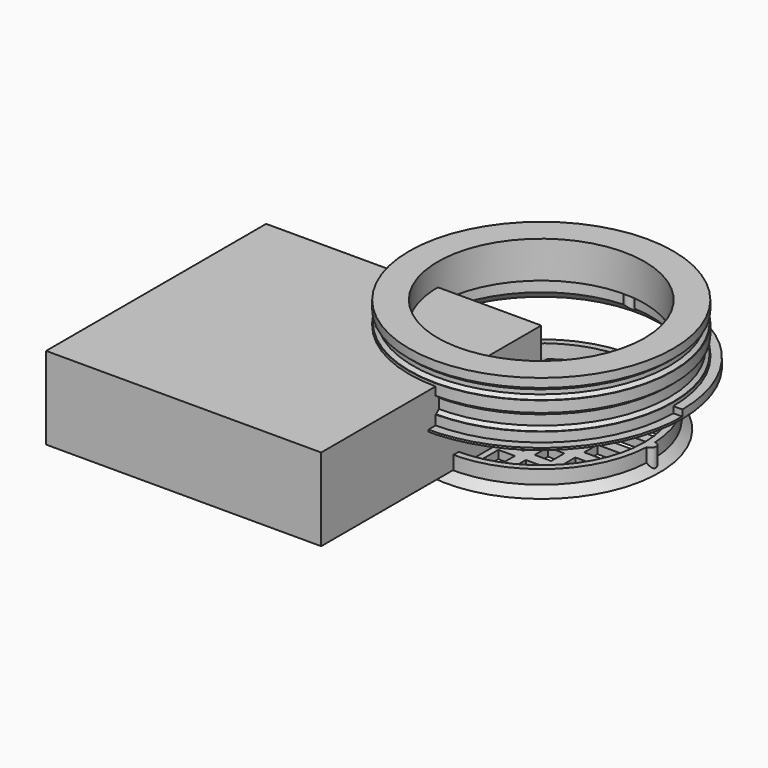
from build123d import *

# Parameters (mm, degrees)
CYLINDER053_R     = 1.9
CYLINDER053_DEPTH = 7.8
CYLINDER045_R     = 1.9
CYLINDER045_DEPTH = 7.8
CYLINDER047_R     = 1.9
CYLINDER047_DEPTH = 7.8
CYLINDER050_R     = 68.3
CYLINDER050_DEPTH = 5
CYLINDER051_R     = 37.5
CYLINDER051_DEPTH = 32
CYLINDER042_R     = 37.5
CYLINDER042_DEPTH = 5
CYLINDER043_R     = 39.9
CYLINDER043_DEPTH = 5
CYLINDER044_R     = 50
CYLINDER044_DEPTH = 10
CYLINDER049_R     = 37.5
CYLINDER049_DEPTH = 5
CYLINDER046_R     = 45
CYLINDER046_DEPTH = 5
BOX013_W          = 66
BOX013_H          = 4
BOX013_DEPTH      = 5
BOX012_W          = 66
BOX012_H          = 4
BOX012_DEPTH      = 5
BOX015_W          = 74
BOX015_H          = 4
BOX015_DEPTH      = 5
BOX016_W          = 74
BOX016_H          = 4
BOX016_DEPTH      = 5
BOX018_W          = 74
BOX018_H          = 4
BOX018_DEPTH      = 5
BOX011_W          = 66
BOX011_H          = 4
BOX011_DEPTH      = 5
BOX014_W          = 76
BOX014_H          = 4
BOX014_DEPTH      = 5
BOX017_W          = 66
BOX017_H          = 4
BOX017_DEPTH      = 5
BOX019_W          = 76
BOX019_H          = 4
BOX019_DEPTH      = 5
BOX010_W          = 74
BOX010_H          = 4
BOX010_DEPTH      = 5
CYLINDER052_R     = 37.3
CYLINDER052_DEPTH = 5
CYLINDER048_R     = 37.5
CYLINDER048_DEPTH = 5
BOX_W             = 70
BOX_H             = 70
BOX_DEPTH         = 20
CYLINDER060_R     = 48
CYLINDER060_DEPTH = 7
CYLINDER059_R     = 51.3
CYLINDER059_DEPTH = 2.28
CYLINDER058_R     = 2
CYLINDER058_DEPTH = 7.8
CYLINDER057_R     = 2
CYLINDER057_DEPTH = 7.8
CYLINDER054_R     = 2
CYLINDER054_DEPTH = 7.8
CYLINDER056_R     = 37.6
CYLINDER056_DEPTH = 13.4
CYLINDER055_R     = 40
CYLINDER055_DEPTH = 13.4
CYLINDER019_R     = 68.3
CYLINDER019_DEPTH = 5
CYLINDER009_R     = 40
CYLINDER009_DEPTH = 27.4
CYLINDER008_R     = 45
CYLINDER008_DEPTH = 23.4
CYLINDER005_R     = 45
CYLINDER005_DEPTH = 25
CYLINDER_R        = 48
CYLINDER_DEPTH    = 3.2
CYLINDER003_R     = 46.6
CYLINDER003_DEPTH = 6
CYLINDER001_R     = 46.6
CYLINDER001_DEPTH = 4
CYLINDER002_R     = 48
CYLINDER002_DEPTH = 4
CYLINDER004_R     = 48
CYLINDER004_DEPTH = 1.2
CYLINDER007_R     = 45
CYLINDER007_DEPTH = 25
CYLINDER006_R     = 51.3
CYLINDER006_DEPTH = 5
CHAMFER_SIZE      = 1.2
CHAMFER001_SIZE   = 1.2
BOX021_W          = 100
BOX021_H          = 100
BOX021_DEPTH      = 30


with BuildPart() as cylinder053:
    # Cylinder053 → Cylinder053 (new body)
    with BuildSketch(Plane(origin=(0, 39.8, -18), x_dir=(1, 0, 0), z_dir=(0, 0, 1))):
        Circle(CYLINDER053_R)
    extrude(amount=CYLINDER053_DEPTH)


with BuildPart() as cylinder045:
    # Cylinder045 → Cylinder045 (new body)
    with BuildSketch(Plane(origin=(-39.8, 0, -18), x_dir=(1, 0, 0), z_dir=(0, 0, 1))):
        Circle(CYLINDER045_R)
    extrude(amount=CYLINDER045_DEPTH)


with BuildPart() as cylinder047:
    # Cylinder047 → Cylinder047 (new body)
    with BuildSketch(Plane(origin=(39.8, 0, -18), x_dir=(1, 0, 0), z_dir=(0, 0, 1))):
        Circle(CYLINDER047_R)
    extrude(amount=CYLINDER047_DEPTH)


with BuildPart() as obj1:
    # Cylinder050 → Cylinder050 (new body)
    with BuildSketch(Plane.XY.offset(-23.2)):
        Circle(CYLINDER050_R)
    extrude(amount=CYLINDER050_DEPTH)


with BuildPart() as cylinder051:
    # Cylinder051 → Cylinder051 (new body)
    with BuildSketch(Plane.XY.offset(-39)):
        Circle(CYLINDER051_R)
    extrude(amount=CYLINDER051_DEPTH)


with BuildPart() as cut019:
    # Cone003 → Cone003 (revolve)
    with BuildSketch(Plane(origin=(0, 0, -15.2), x_dir=(-1, 0, 0), z_dir=(0, -1, 0))):
        Polygon((0, 0), (39.85, 0), (44.9, 5), (0, 5), align=None)
    revolve(axis=Axis((0, 0, -15.2), (0, 0, -1)))

    # Cut019: cut Cylinder051
    add(cylinder051.part, mode=Mode.SUBTRACT)


with BuildPart() as cylinder042:
    # Cylinder042 → Cylinder042 (new body)
    with BuildSketch(Plane.XY):
        Circle(CYLINDER042_R)
    extrude(amount=CYLINDER042_DEPTH)


with BuildPart() as cut025:
    # Cylinder043 → Cylinder043 (new body)
    with BuildSketch(Plane.XY):
        Circle(CYLINDER043_R)
    extrude(amount=CYLINDER043_DEPTH)

    # Cut021: cut Cylinder042
    add(cylinder042.part, mode=Mode.SUBTRACT)


with BuildPart() as cut025_1:
    # Cut021 placement: moved
    add(cut025.part.moved(Location((0, 0, -15.2))))

    # Fusion015: union Cut019
    add(cut019.part)

    # Cut025: cut obj1
    add(obj1.part, mode=Mode.SUBTRACT)


with BuildPart() as cylinder044:
    # Cylinder044 → Cylinder044 (new body)
    with BuildSketch(Plane.XY.offset(-49)):
        Circle(CYLINDER044_R)
    extrude(amount=CYLINDER044_DEPTH)


with BuildPart() as cylinder049:
    # Cylinder049 → Cylinder049 (new body)
    with BuildSketch(Plane.XY.offset(-41)):
        Circle(CYLINDER049_R)
    extrude(amount=CYLINDER049_DEPTH)


with BuildPart() as cut020:
    # Cylinder046 → Cylinder046 (new body)
    with BuildSketch(Plane.XY.offset(-41)):
        Circle(CYLINDER046_R)
    extrude(amount=CYLINDER046_DEPTH)

    # Cut020: cut Cylinder049
    add(cylinder049.part, mode=Mode.SUBTRACT)


with BuildPart() as cube013:
    # Box013 → Box013 (new body)
    with BuildSketch(Plane(origin=(-18, -33, -41), x_dir=(0, 1, 0), z_dir=(0, 0, 1))):
        with Locations((33, 2)):
            Rectangle(BOX013_W, BOX013_H)
    extrude(amount=BOX013_DEPTH)


with BuildPart() as cube012:
    # Box012 → Box012 (new body)
    with BuildSketch(Plane(origin=(22, -33, -41), x_dir=(0, 1, 0), z_dir=(0, 0, 1))):
        with Locations((33, 2)):
            Rectangle(BOX012_W, BOX012_H)
    extrude(amount=BOX012_DEPTH)


with BuildPart() as cube015:
    # Box015 → Box015 (new body)
    with BuildSketch(Plane(origin=(-8, -37, -41), x_dir=(0, 1, 0), z_dir=(0, 0, 1))):
        with Locations((37, 2)):
            Rectangle(BOX015_W, BOX015_H)
    extrude(amount=BOX015_DEPTH)


with BuildPart() as cube016:
    # Box016 → Box016 (new body)
    with BuildSketch(Plane(origin=(-37, 8, -41), x_dir=(1, 0, 0), z_dir=(0, 0, 1))):
        with Locations((37, 2)):
            Rectangle(BOX016_W, BOX016_H)
    extrude(amount=BOX016_DEPTH)


with BuildPart() as cube018:
    # Box018 → Box018 (new body)
    with BuildSketch(Plane(origin=(-37, -12, -41), x_dir=(1, 0, 0), z_dir=(0, 0, 1))):
        with Locations((37, 2)):
            Rectangle(BOX018_W, BOX018_H)
    extrude(amount=BOX018_DEPTH)


with BuildPart() as cube011:
    # Box011 → Box011 (new body)
    with BuildSketch(Plane(origin=(-33, -22, -41), x_dir=(1, 0, 0), z_dir=(0, 0, 1))):
        with Locations((33, 2)):
            Rectangle(BOX011_W, BOX011_H)
    extrude(amount=BOX011_DEPTH)


with BuildPart() as cube014:
    # Box014 → Box014 (new body)
    with BuildSketch(Plane(origin=(-38, -2, -41), x_dir=(1, 0, 0), z_dir=(0, 0, 1))):
        with Locations((38, 2)):
            Rectangle(BOX014_W, BOX014_H)
    extrude(amount=BOX014_DEPTH)


with BuildPart() as cube017:
    # Box017 → Box017 (new body)
    with BuildSketch(Plane(origin=(-33, 18, -41), x_dir=(1, 0, 0), z_dir=(0, 0, 1))):
        with Locations((33, 2)):
            Rectangle(BOX017_W, BOX017_H)
    extrude(amount=BOX017_DEPTH)


with BuildPart() as cube019:
    # Box019 → Box019 (new body)
    with BuildSketch(Plane(origin=(2, -38, -41), x_dir=(0, 1, 0), z_dir=(0, 0, 1))):
        with Locations((38, 2)):
            Rectangle(BOX019_W, BOX019_H)
    extrude(amount=BOX019_DEPTH)


with BuildPart() as cube010:
    # Box010 → Box010 (new body)
    with BuildSketch(Plane(origin=(12, -37, -41), x_dir=(0, 1, 0), z_dir=(0, 0, 1))):
        with Locations((37, 2)):
            Rectangle(BOX010_W, BOX010_H)
    extrude(amount=BOX010_DEPTH)


with BuildPart() as cylinder052:
    # Cylinder052 → Cylinder052 (new body)
    with BuildSketch(Plane.XY.offset(-41)):
        Circle(CYLINDER052_R)
    extrude(amount=CYLINDER052_DEPTH)


with BuildPart() as fusion018:
    # Cylinder048 → Cylinder048 (new body)
    with BuildSketch(Plane.XY.offset(-41)):
        Circle(CYLINDER048_R)
    extrude(amount=CYLINDER048_DEPTH)

    # Cut022: cut Cylinder052
    add(cylinder052.part, mode=Mode.SUBTRACT)

    # Fusion016: union Cube013, Cube012, Cube015, Cube016, Cube018, Cube011, Cube014, Cube017, Cube019, Cube010
    add(cube013.part)
    add(cube012.part)
    add(cube015.part)
    add(cube016.part)
    add(cube018.part)
    add(cube011.part)
    add(cube014.part)
    add(cube017.part)
    add(cube019.part)
    add(cube010.part)

    # Cut023: cut Cut020
    add(cut020.part, mode=Mode.SUBTRACT)

    # Cut024: cut Cylinder044
    add(cylinder044.part, mode=Mode.SUBTRACT)


with BuildPart() as fusion018_1:
    # Cut024 placement: moved
    add(fusion018.part.moved(Location((0, 0, 20.8))))

    # Fusion017: union Cut025
    add(cut025_1.part)

    # Fusion014: union Cylinder045, Cylinder047
    add(cylinder045.part)
    add(cylinder047.part)

    # Fusion018: union Cylinder053
    add(cylinder053.part)


with BuildPart() as cube:
    # Box → Box (new body)
    with BuildSketch(Plane.XY.offset(-24)):
        with Locations((35, 35)):
            Rectangle(BOX_W, BOX_H)
    extrude(amount=BOX_DEPTH)


with BuildPart() as cylinder060:
    # Cylinder060 → Cylinder060 (new body)
    with BuildSketch(Plane.XY.offset(-21.2)):
        Circle(CYLINDER060_R)
    extrude(amount=CYLINDER060_DEPTH)


with BuildPart() as cut031:
    # Cylinder059 → Cylinder059 (new body)
    with BuildSketch(Plane.XY.offset(-20.2)):
        Circle(CYLINDER059_R)
    extrude(amount=CYLINDER059_DEPTH)

    # Cut030: cut Cylinder060
    add(cylinder060.part, mode=Mode.SUBTRACT)

    # Cut031: cut Cube
    add(cube.part, mode=Mode.SUBTRACT)


with BuildPart() as cut031_1:
    # Cut031 placement: moved
    add(cut031.part.moved(Location((0, 0, 2.72))))


with BuildPart() as cylinder058:
    # Cylinder058 → Cylinder058 (new body)
    with BuildSketch(Plane(origin=(-39.8, 0, -18), x_dir=(1, 0, 0), z_dir=(0, 0, 1))):
        Circle(CYLINDER058_R)
    extrude(amount=CYLINDER058_DEPTH)


with BuildPart() as cylinder057:
    # Cylinder057 → Cylinder057 (new body)
    with BuildSketch(Plane(origin=(39.8, 0, -18), x_dir=(1, 0, 0), z_dir=(0, 0, 1))):
        Circle(CYLINDER057_R)
    extrude(amount=CYLINDER057_DEPTH)


with BuildPart() as cylinder054:
    # Cylinder054 → Cylinder054 (new body)
    with BuildSketch(Plane(origin=(0, 39.8, -18), x_dir=(1, 0, 0), z_dir=(0, 0, 1))):
        Circle(CYLINDER054_R)
    extrude(amount=CYLINDER054_DEPTH)


with BuildPart() as cylinder056:
    # Cylinder056 → Cylinder056 (new body)
    with BuildSketch(Plane.XY.offset(-10.2)):
        Circle(CYLINDER056_R)
    extrude(amount=CYLINDER056_DEPTH)


with BuildPart() as cut026:
    # Cylinder055 → Cylinder055 (new body)
    with BuildSketch(Plane.XY.offset(-10.2)):
        Circle(CYLINDER055_R)
    extrude(amount=CYLINDER055_DEPTH)

    # Cut026: cut Cylinder056
    add(cylinder056.part, mode=Mode.SUBTRACT)


with BuildPart() as obj2:
    # Cylinder019 → Cylinder019 (new body)
    with BuildSketch(Plane.XY.offset(-23.2)):
        Circle(CYLINDER019_R)
    extrude(amount=CYLINDER019_DEPTH)


with BuildPart() as cone:
    # Cone → Cone (revolve)
    with BuildSketch(Plane(origin=(0, 0, -15.2), x_dir=(-1, 0, 0), z_dir=(0, -1, 0))):
        Polygon((0, 0), (40, 0), (45, 5), (0, 5), align=None)
    revolve(axis=Axis((0, 0, -15.2), (0, 0, -1)))


with BuildPart() as fusion002:
    # Cylinder009 → Cylinder009 (new body)
    with BuildSketch(Plane.XY.offset(-17)):
        Circle(CYLINDER009_R)
    extrude(amount=CYLINDER009_DEPTH)

    # Fusion002: union Cone
    add(cone.part)


with BuildPart() as cut002:
    # Cylinder008 → Cylinder008 (new body)
    with BuildSketch(Plane.XY.offset(-20.2)):
        Circle(CYLINDER008_R)
    extrude(amount=CYLINDER008_DEPTH)

    # Cut002: cut Fusion002
    add(fusion002.part, mode=Mode.SUBTRACT)


with BuildPart() as cylinder005:
    # Cylinder005 → Cylinder005 (new body)
    with BuildSketch(Plane.XY.offset(-18)):
        Circle(CYLINDER005_R)
    extrude(amount=CYLINDER005_DEPTH)


with BuildPart() as cylinder:
    # Cylinder → Cylinder (new body)
    with BuildSketch(Plane.XY):
        Circle(CYLINDER_R)
    extrude(amount=CYLINDER_DEPTH)


with BuildPart() as cylinder003:
    # Cylinder003 → Cylinder003 (new body)
    with BuildSketch(Plane.XY.offset(-14)):
        Circle(CYLINDER003_R)
    extrude(amount=CYLINDER003_DEPTH)


with BuildPart() as cylinder001:
    # Cylinder001 → Cylinder001 (new body)
    with BuildSketch(Plane.XY.offset(-4)):
        Circle(CYLINDER001_R)
    extrude(amount=CYLINDER001_DEPTH)


with BuildPart() as cylinder002:
    # Cylinder002 → Cylinder002 (new body)
    with BuildSketch(Plane.XY.offset(-8)):
        Circle(CYLINDER002_R)
    extrude(amount=CYLINDER002_DEPTH)


with BuildPart() as cut:
    # Cylinder004 → Cylinder004 (new body)
    with BuildSketch(Plane.XY.offset(-15.2)):
        Circle(CYLINDER004_R)
    extrude(amount=CYLINDER004_DEPTH)

    # Fusion: union Cylinder, Cylinder003, Cylinder001, Cylinder002
    add(cylinder.part)
    add(cylinder003.part)
    add(cylinder001.part)
    add(cylinder002.part)

    # Cut: cut Cylinder005
    add(cylinder005.part, mode=Mode.SUBTRACT)


with BuildPart() as cylinder007:
    # Cylinder007 → Cylinder007 (new body)
    with BuildSketch(Plane.XY.offset(-23)):
        Circle(CYLINDER007_R)
    extrude(amount=CYLINDER007_DEPTH)


with BuildPart() as obj3:
    # Cylinder006 → Cylinder006 (new body)
    with BuildSketch(Plane.XY.offset(-20.2)):
        Circle(CYLINDER006_R)
    extrude(amount=CYLINDER006_DEPTH)

    # Cut001: cut Cylinder007
    add(cylinder007.part, mode=Mode.SUBTRACT)

    # Fusion001: union Cut
    add(cut.part)

    # Fusion003: union Cut002
    add(cut002.part)

    # Chamfer
    chamfer_edges = [obj3.edges().sort_by_distance(p)[0] for p in [
        (-46.6, 0, -14),
        (-46.6, 0, -4),
    ]]
    chamfer(chamfer_edges, length=CHAMFER_SIZE)

    # Chamfer001
    chamfer001_edges = [obj3.edges().sort_by_distance(p)[0] for p in [
        (-46.6, 0, -8),
        (-46.6, 0, 0),
    ]]
    chamfer(chamfer001_edges, length=CHAMFER001_SIZE)

    # Cut009: cut obj2
    add(obj2.part, mode=Mode.SUBTRACT)

    # Fusion019: union Cut026
    add(cut026.part)

    # Cut027: cut Cylinder054
    add(cylinder054.part, mode=Mode.SUBTRACT)

    # Cut028: cut Cylinder057
    add(cylinder057.part, mode=Mode.SUBTRACT)

    # Cut029: cut Cylinder058
    add(cylinder058.part, mode=Mode.SUBTRACT)

    # Cut032: cut Cut031
    add(cut031_1.part, mode=Mode.SUBTRACT)


with BuildPart() as obj3_1:
    # Cut032 placement: moved
    add(obj3.part.moved(Location((0, 0, 20))))


with BuildPart() as cube021:
    # Box021 → Box021 (new body)
    with BuildSketch(Plane(origin=(-100, -100, -15), x_dir=(1, 0, 0), z_dir=(0, 0, 1))):
        with Locations((50, 50)):
            Rectangle(BOX021_W, BOX021_H)
    extrude(amount=BOX021_DEPTH)


solid = Compound([fusion018_1.part, obj3_1.part, cube021.part])
